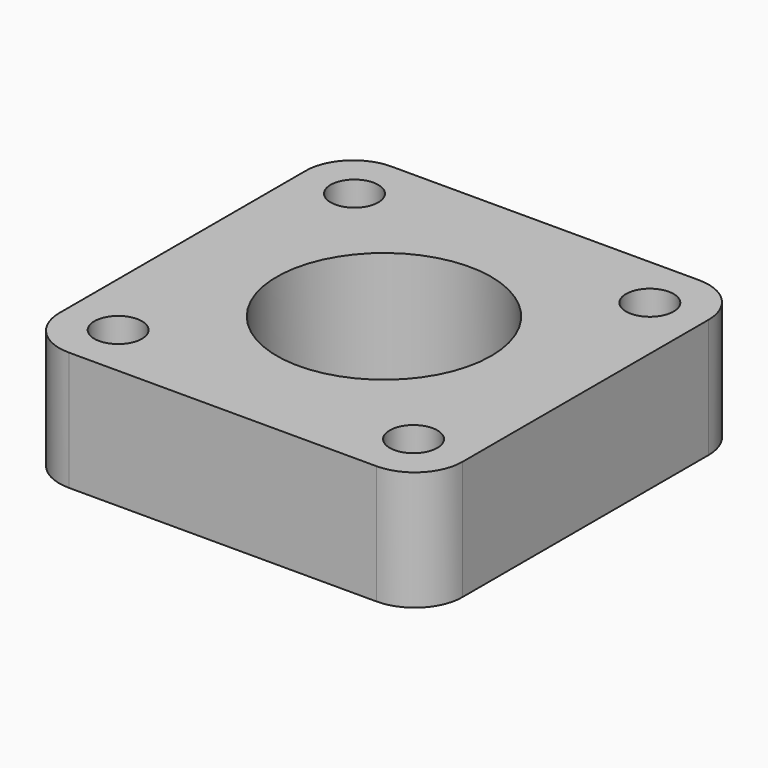
from build123d import *

# Parameters (mm, degrees)
F0_W     = 42.3
F0_H     = 42.3
F0_W_2   = 31
F0_H_2   = 31
F0_R     = 11.25
F1_DEPTH = 12.5
F2_R     = 5
F3_R     = 5
F4_D     = 5


with BuildPart() as f1:
    # F0 (on Top) → F1 (new body)
    with BuildSketch(Plane.XY):
        Rectangle(F0_W, F0_H)
        Rectangle(F0_W_2, F0_H_2, mode=Mode.SUBTRACT)
        Rectangle(F0_W_2, F0_H_2)
        Circle(F0_R, mode=Mode.SUBTRACT)
    extrude(amount=-F1_DEPTH)

    # F2
    f2_edges = [f1.edges().sort_by_distance(p)[0] for p in [
        (21.15, -21.15, -6.25),
        (-21.15, 21.15, -6.25),
        (21.15, 21.15, -6.25),
    ]]
    fillet(f2_edges, radius=F2_R)

    # F3
    f3_edges = [f1.edges().sort_by_distance(p)[0] for p in [
        (-21.15, -21.15, -6.25),
    ]]
    fillet(f3_edges, radius=F3_R)

    # F4 (through all)
    with Locations(Plane.XY):
        with Locations((-15.5, -15.5), (-15.5, 15.5), (15.5, 15.5), (15.5, -15.5)):
            Hole(F4_D / 2)


solid = f1.part
